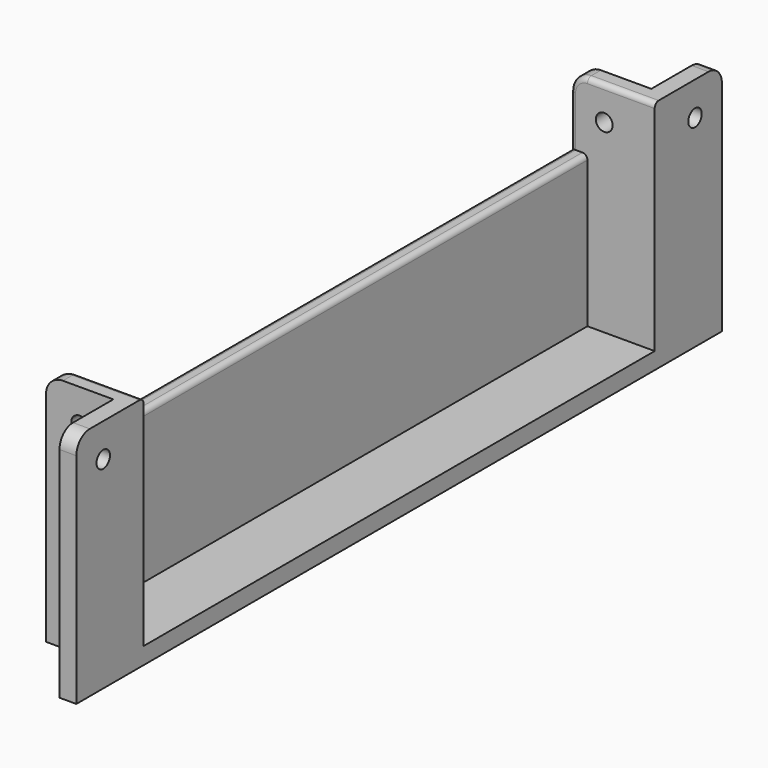
from build123d import *

# Parameters (mm, degrees)
EXTRUDE001_DEPTH = 45
EXTRUDE_DEPTH    = 5
FACE005_R        = 2.5
EXTRUDE005_DEPTH = 5
SKETCH004_R      = 2.5
EXTRUDE004_DEPTH = 5
FACE003_R        = 2.5
EXTRUDE003_DEPTH = 5
EXTRUDE002_DEPTH = 20
FILLET_R         = 5
FILLET001_R      = 5
FILLET002_R      = 5
FILLET003_R      = 5
FILLET004_R      = 1.5
FILLET005_R      = 1.5
FILLET006_R      = 1.5
FILLET007_R      = 1.5


with BuildPart() as extrude001:
    # Face001 → Extrude001 (new body)
    with BuildSketch(Plane(origin=(7.142857, 100, 5), x_dir=(0, 1, 0), z_dir=(0, 0, 1))):
        Polygon((-120, -12.857143), (-120, -17.857143), (-95, -17.857143), (-95, 2.142857), (95, 2.142857), (95, -17.857143), (120, -17.857143), (120, -12.857143), (100, -12.857143), (100, 7.142857), (-100, 7.142857), (-100, -12.857143), align=None)
    extrude(amount=EXTRUDE001_DEPTH)


with BuildPart() as fusion:
    # Sketch → Extrude (new body)
    with BuildSketch(Plane.XY):
        Polygon((20, -20), (20, 0), (0, 0), (0, 200), (20, 200), (20, 220), (25, 220), (25, -20), align=None)
    extrude(amount=EXTRUDE_DEPTH)

    # Fusion: union Extrude001
    add(extrude001.part)


with BuildPart() as extrude005:
    # Face005 → Extrude005 (new body)
    with BuildSketch(Plane(origin=(10, 5, 60), x_dir=(1, 0, 0), z_dir=(0, 1, 0))):
        Circle(FACE005_R)
    extrude(amount=-EXTRUDE005_DEPTH)


with BuildPart() as extrude004:
    # Sketch004 (on Face12 of Cut) → Extrude004 (new body)
    with BuildSketch(Plane.XZ.offset(-195)):
        with Locations((10, 60)):
            Circle(SKETCH004_R)
    extrude(amount=-EXTRUDE004_DEPTH)


with BuildPart() as extrude003:
    # Face003 → Extrude003 (new body)
    with BuildSketch(Plane(origin=(25, -10, 60), x_dir=(0, -1, 0), z_dir=(1, 0, 0))):
        Circle(FACE003_R)
        with Locations((-220, 0)):
            Circle(FACE003_R)
    extrude(amount=-EXTRUDE003_DEPTH)


with BuildPart() as fillet007:
    # Face002 → Extrude002 (new body)
    with BuildSketch(Plane(origin=(16.944444, -3.055556, 50), x_dir=(0, 1, 0), z_dir=(0, 0, 1))):
        Polygon((8.055556, -8.055556), (8.055556, 16.944444), (3.055556, 16.944444), (3.055556, -3.055556), (-16.944444, -3.055556), (-16.944444, -8.055556), align=None)
        Polygon((203.055556, 16.944444), (198.055556, 16.944444), (198.055556, -8.055556), (223.055556, -8.055556), (223.055556, -3.055556), (203.055556, -3.055556), align=None)
    extrude(amount=EXTRUDE002_DEPTH)

    # Cut: cut Extrude003
    add(extrude003.part, mode=Mode.SUBTRACT)

    # Cut001: cut Extrude004
    add(extrude004.part, mode=Mode.SUBTRACT)

    # Cut002: cut Extrude005
    add(extrude005.part, mode=Mode.SUBTRACT)

    # Fusion001: union Fusion
    add(fusion.part)

    # Fillet
    fillet_edges = [fillet007.edges().sort_by_distance(p)[0] for p in [
        (22.5, 220, 70),
    ]]
    fillet(fillet_edges, radius=FILLET_R)

    # Fillet001
    fillet001_edges = [fillet007.edges().sort_by_distance(p)[0] for p in [
        (0, 197.5, 70),
    ]]
    fillet(fillet001_edges, radius=FILLET001_R)

    # Fillet002
    fillet002_edges = [fillet007.edges().sort_by_distance(p)[0] for p in [
        (22.5, -20, 70),
    ]]
    fillet(fillet002_edges, radius=FILLET002_R)

    # Fillet003
    fillet003_edges = [fillet007.edges().sort_by_distance(p)[0] for p in [
        (0, 2.5, 70),
    ]]
    fillet(fillet003_edges, radius=FILLET003_R)

    # Fillet004
    fillet004_edges = [fillet007.edges().sort_by_distance(p)[0] for p in [
        (5, 100, 50),
    ]]
    fillet(fillet004_edges, radius=FILLET004_R)

    # Fillet005
    fillet005_edges = [fillet007.edges().sort_by_distance(p)[0] for p in [
        (0, 100, 50),
    ]]
    fillet(fillet005_edges, radius=FILLET005_R)

    # Fillet006
    fillet006_edges = [fillet007.edges().sort_by_distance(p)[0] for p in [
        (0, 195, 57.5),
        (1.464466, 195, 68.535534),
        (15, 195, 70),
    ]]
    fillet(fillet006_edges, radius=FILLET006_R)

    # Fillet007
    fillet007_edges = [fillet007.edges().sort_by_distance(p)[0] for p in [
        (0, 5, 57.5),
    ]]
    fillet(fillet007_edges, radius=FILLET007_R)


solid = fillet007.part
